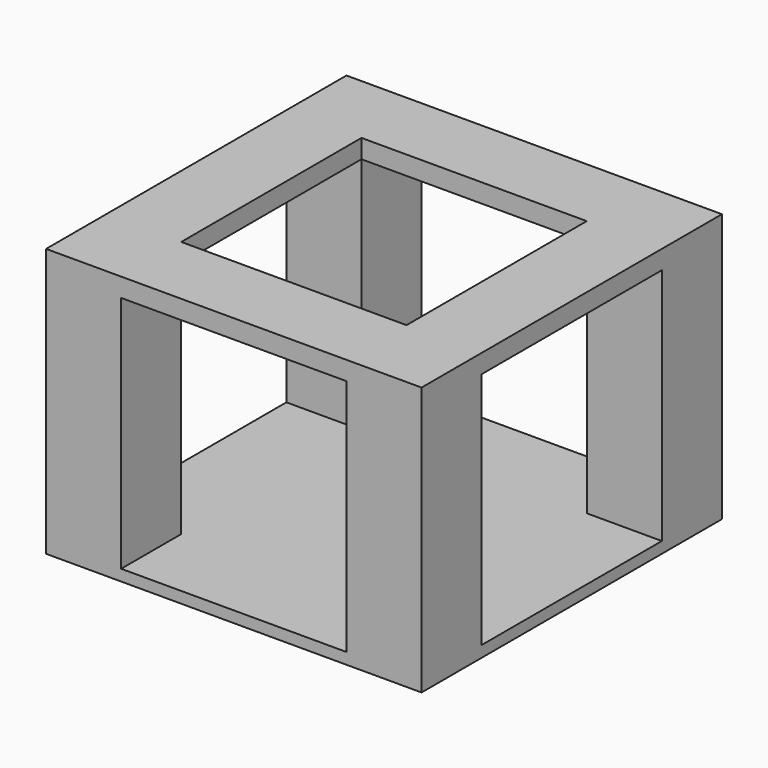
from build123d import *

# Parameters (mm, degrees)
F0_W     = 20
F0_H     = 20
F1_DEPTH = 0.6
F2_W     = 4
F2_H     = 4
F3_DEPTH = 12.7
F6_W     = 20
F6_H     = 20
F6_W_2   = 12
F6_H_2   = 12
F7_DEPTH = 1


with BuildPart() as f1:
    # F0 (on Top) → F1 (new body)
    with BuildSketch(Plane.XY):
        Rectangle(F0_W, F0_H)
    extrude(amount=F1_DEPTH)

    # F2 (on face) → F3 (join)
    with BuildSketch(Plane.XY.offset(0.6)):
        with Locations((-8, 8)):
            Rectangle(F2_W, F2_H)
    extrude(amount=F3_DEPTH)

    # F4: F1 across plane


with BuildPart() as f1_1:
    add(f1.part)
    add(f1.part.mirror(Plane.YZ))

    # F5: F1 across plane


with BuildPart() as f1_2:
    add(f1_1.part)
    add(f1_1.part.mirror(Plane.XZ))

    # F6 (on face) → F7 (join)
    with BuildSketch(Plane.XY.offset(13.3)):
        Rectangle(F6_W, F6_H)
        Rectangle(F6_W_2, F6_H_2, mode=Mode.SUBTRACT)
    extrude(amount=F7_DEPTH)


solid = f1_2.part
